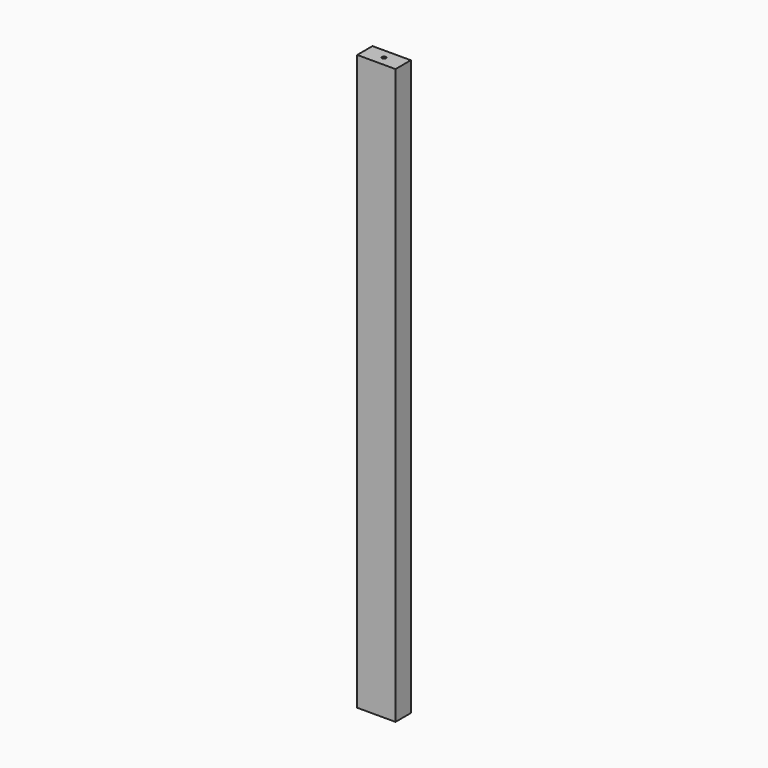
from build123d import *

# Parameters (mm, degrees)
F0_W     = 60
F0_H     = 30
F1_DEPTH = 900
F3_R     = 3
F4_DEPTH = 12
F5_R     = 3
F6_DEPTH = 12


with BuildPart() as f1:
    # F0 (on Top) → F1 (new body)
    with BuildSketch(Plane.XY):
        with Locations((30, 15)):
            Rectangle(F0_W, F0_H)
    extrude(amount=F1_DEPTH)

    # F3 (on face) → F4 (cut)
    with BuildSketch(Plane.XY.offset(900)):
        with Locations((30, 15)):
            Circle(F3_R)
    extrude(amount=-F4_DEPTH, mode=Mode.SUBTRACT)

    # F5 (on face) → F6 (cut)
    with BuildSketch(Plane(origin=(0, 0, 0), x_dir=(1, 0, 0), z_dir=(0, 0, -1))):
        with Locations((30, -15)):
            Circle(F5_R)
    extrude(amount=-F6_DEPTH, mode=Mode.SUBTRACT)


solid = f1.part
